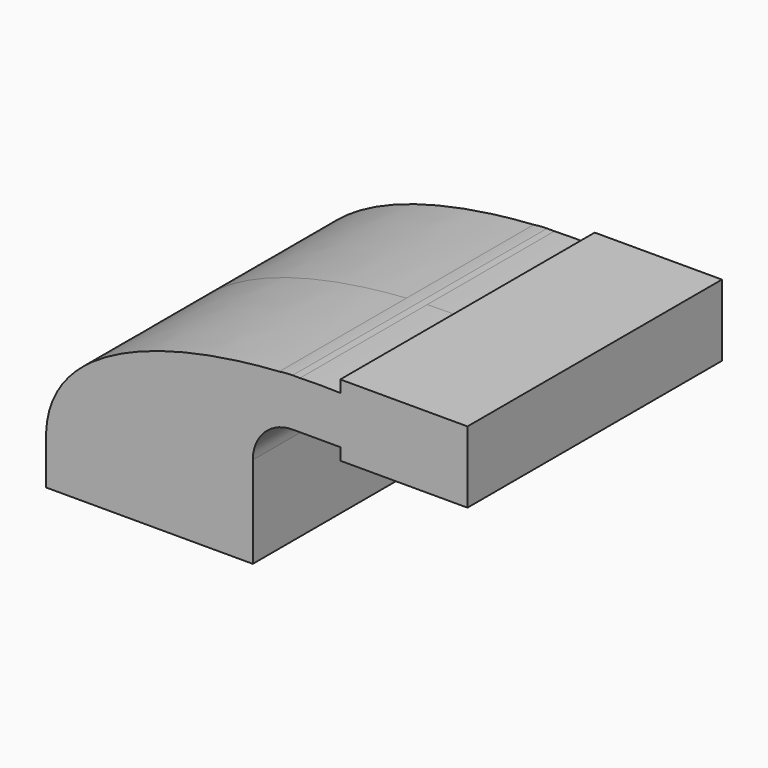
from build123d import *

# Parameters (mm, degrees)
F0_W     = 25.4
F0_H     = 19.05
F0_H_2   = 4.7498
F0_H_3   = 4.7752
F1_DEPTH = 63.5


with BuildPart() as f1:
    # F0 (on Front) → F1 (new body, symmetric)
    with BuildSketch(Plane.XZ):
        Polygon((-41.275, -9.525), (41.275, -9.525), (41.275, 0), (41.275, 9.525), (22.225, 9.525), (-41.275, 9.525), align=None)
        with BuildLine():
            add(Edge.make_bspline(
                [(-41.275, 9.525), (-40.1127492215, 45.3608282082), (10.2455717383, 58.7983861186), (51.8289972112, 61.5174790689)],
                knots=[0, 0, 0, 0, 106.414059963, 106.414059963, 106.414059963, 106.414059963], degree=3))
            Line((-41.275, 9.525), (22.225, 9.525))
            Line((22.225, 9.525), (22.225, 27.0002))
            ThreePointArc((22.225, 27.0002), (30.63970344, 49.7369500162), (51.8289972112, 61.5174790689))
        make_face()
        with BuildLine():
            Line((22.225, 9.525), (41.275, 9.525))
            Line((41.275, 9.525), (41.275, 27.0002))
            ThreePointArc((41.275, 27.0002), (45.9246798487, 38.2255201513), (57.15, 42.8752))
            Line((57.15, 42.8752), (76.2, 42.8752))
            Line((76.2, 42.8752), (76.2, 61.9252))
            Line((76.2, 61.9252), (60.1124922335, 61.9252))
            add(Edge.make_bspline(
                [(51.8289972112, 61.5174790689), (54.6360932505, 61.7010318899), (57.4032025523, 61.8357412294), (60.1124922335, 61.9252)],
                knots=[106.414059963, 106.414059963, 106.414059963, 106.414059963, 113.5975587454, 113.5975587454, 113.5975587454, 113.5975587454], degree=3))
            ThreePointArc((51.8289972112, 61.5174790689), (30.63970344, 49.7369500162), (22.225, 27.0002))
            Line((22.225, 27.0002), (22.225, 9.525))
        make_face()
        with BuildLine():
            ThreePointArc((57.15, 61.9252), (54.4816996498, 61.8231205875), (51.8289972112, 61.5174790689))
            add(Edge.make_bspline(
                [(51.8289972112, 61.5174790689), (54.6360932505, 61.7010318899), (57.4032025523, 61.8357412294), (60.1124922335, 61.9252)],
                knots=[106.414059963, 106.414059963, 106.414059963, 106.414059963, 113.5975587454, 113.5975587454, 113.5975587454, 113.5975587454], degree=3))
            Line((60.1124922335, 61.9252), (57.15, 61.9252))
        make_face()
        with BuildLine():
            add(Edge.make_bspline(
                [(60.1124922335, 61.9252), (65.7827499857, 62.1124277781), (71.1997457835, 62.1014486601), (76.2, 61.9252)],
                knots=[113.5975587454, 113.5975587454, 113.5975587454, 113.5975587454, 128.6318645789, 128.6318645789, 128.6318645789, 128.6318645789], degree=3))
            Line((60.1124922335, 61.9252), (76.2, 61.9252))
        make_face()
        with Locations((88.9, 52.4002)):
            Rectangle(F0_W, F0_H)
        with Locations((88.9, 64.3001)):
            Rectangle(F0_W, F0_H_2)
        with Locations((88.9, 40.4876)):
            Rectangle(F0_W, F0_H_3)
        Polygon((101.6, 66.675), (101.6, 61.9252), (101.6, 42.8752), (101.6, 38.1), (127, 38.1), (127, 66.675), align=None)
    extrude(amount=F1_DEPTH, both=True)


solid = f1.part
